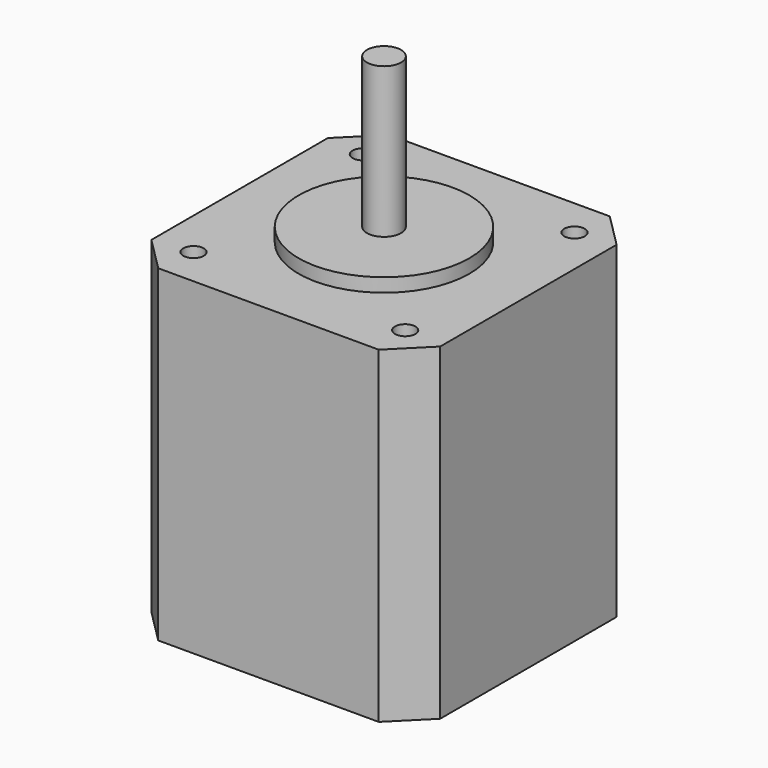
from build123d import *

# Parameters (mm, degrees)
F0_W     = 42.3
F0_H     = 42.3
F1_DEPTH = 48
F2_R     = 12.5
F3_DEPTH = 2
F4_R     = 2.5
F5_DEPTH = 22
F6_R     = 1.5
F7_DEPTH = 5
F8_SIZE  = 5


with BuildPart() as f1:
    # F0 (on Top) → F1 (new body)
    with BuildSketch(Plane.XY):
        Rectangle(F0_W, F0_H)
    extrude(amount=F1_DEPTH)

    # F2 (on face) → F3 (join)
    with BuildSketch(Plane.XY.offset(48)):
        Circle(F2_R)
    extrude(amount=F3_DEPTH)

    # F4 (on face) → F5 (join)
    with BuildSketch(Plane.XY.offset(50)):
        Circle(F4_R)
    extrude(amount=F5_DEPTH)

    # F6 (on face) → F7 (cut)
    with BuildSketch(Plane.XY.offset(48)):
        with Locations((-15.5, 15.5)):
            Circle(F6_R)
        with Locations((15.5, 15.5)):
            Circle(F6_R)
        with Locations((-15.5, -15.5)):
            Circle(F6_R)
        with Locations((15.5, -15.5)):
            Circle(F6_R)
    extrude(amount=-F7_DEPTH, mode=Mode.SUBTRACT)

    # F8
    f8_edges = [f1.edges().sort_by_distance(p)[0] for p in [
        (-21.15, -21.15, 24),
        (21.15, -21.15, 24),
        (21.15, 21.15, 24),
        (-21.15, 21.15, 24),
    ]]
    chamfer(f8_edges, length=F8_SIZE)


solid = f1.part
